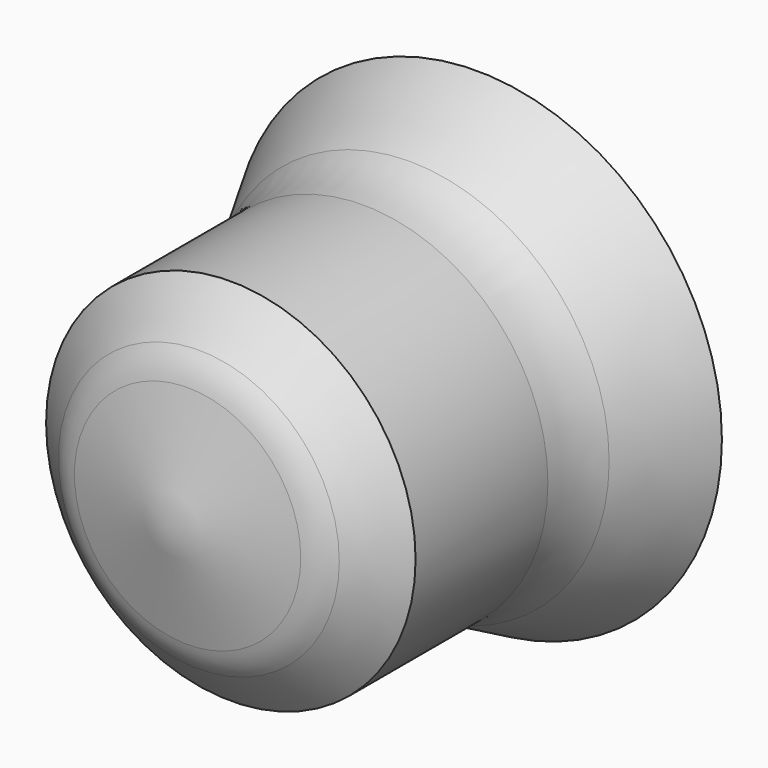
from build123d import *

# Parameters (mm, degrees)
F3_T = -2.54


with BuildPart() as f2:
    # F0 (on Top) → F2 (revolve)
    with BuildSketch(Plane.XY):
        with BuildLine():
            Line((30.605134, 48.398914), (0, 48.398914))
            Line((0, 48.398914), (0, 0))
            Line((0, 0), (14.136649, 3.228901))
            ThreePointArc((14.136649, 3.228901), (15.949753, 3.894065), (17.537399, 4.993687))
            Line((17.537399, 4.993687), (23.078207, 9.980412))
            Line((23.078207, 9.980412), (23.078207, 30.640658))
            ThreePointArc((23.078207, 30.640658), (23.545261, 34.384677), (24.917797, 37.899212))
            Line((24.917797, 37.899212), (30.605134, 48.398914))
        make_face()
    revolve(axis=Axis((0, 24.199457, 0), (0, -1, 0)))

    # F3
    f3_openings = [f2.faces().sort_by_distance(p)[0] for p in [
        (0, 48.398914, 0),
    ]]
    offset(amount=F3_T, openings=f3_openings)


solid = f2.part
